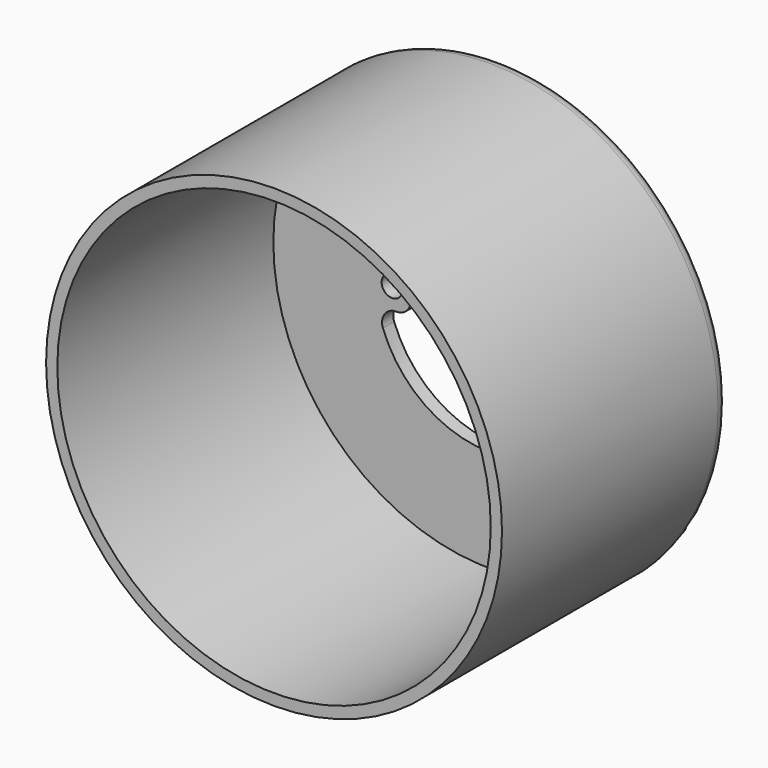
from build123d import *

# Parameters (mm, degrees)
F0_R          = 41.275
F1_DEPTH      = 2.54
F3_R          = 41.275
F3_R_2        = 39.243
F4_DEPTH      = 48.895
F5_R          = 2.54
F2_R          = 1.905
F6_DEPTH      = 25.4
F6_DEPTH_BACK = 25.4
F7_R          = 2.54


with BuildPart() as f1:
    # F0 (on Front) → F1 (new body)
    with BuildSketch(Plane.XZ):
        Circle(F0_R)
    extrude(amount=F1_DEPTH)

    # F3 (on face) → F4 (join)
    with BuildSketch(Plane.XZ.offset(2.54)):
        Circle(F3_R)
        Circle(F3_R_2, mode=Mode.SUBTRACT)
    extrude(amount=F4_DEPTH)

    # F5
    f5_edges = [f1.edges().sort_by_distance(p)[0] for p in [
        (-41.275, 0, 0),
    ]]
    fillet(f5_edges, radius=F5_R)

    # F2 (on face) → F6 (cut, two sides)
    with BuildSketch(Plane.XZ.offset(2.54)) as f6_sk:
        with Locations((17.5006, 0)):
            Circle(F2_R)
        with Locations((-17.7292, 0)):
            Circle(F2_R)
        with BuildLine():
            Line((14.351, 3.81), (20.3473659475, 3.81))
            ThreePointArc((20.3473659475, 3.81), (0, 20.701), (-20.3473659475, 3.81))
            Line((-20.3473659475, 3.81), (-14.351, 3.81))
            Line((-14.351, 3.81), (-14.351, -3.81))
            Line((-14.351, -3.81), (-20.3473659475, -3.81))
            ThreePointArc((-20.3473659475, -3.81), (0, -20.701), (20.3473659475, -3.81))
            Line((20.3473659475, -3.81), (14.351, -3.81))
            Line((14.351, -3.81), (14.351, 3.81))
        make_face()
    extrude(amount=-F6_DEPTH, mode=Mode.SUBTRACT)
    extrude(f6_sk.sketch, amount=F6_DEPTH_BACK, mode=Mode.SUBTRACT)

    # F7
    f7_edges = [f1.edges().sort_by_distance(p)[0] for p in [
        (-20.347366, -1.27, 3.81),
        (-14.351, -1.27, 3.81),
        (-14.351, -1.27, -3.81),
        (-20.347366, -1.27, -3.81),
        (14.351, -1.27, 3.81),
        (14.351, -1.27, -3.81),
        (20.347366, -1.27, -3.81),
        (20.347366, -1.27, 3.81),
    ]]
    fillet(f7_edges, radius=F7_R)


solid = f1.part
